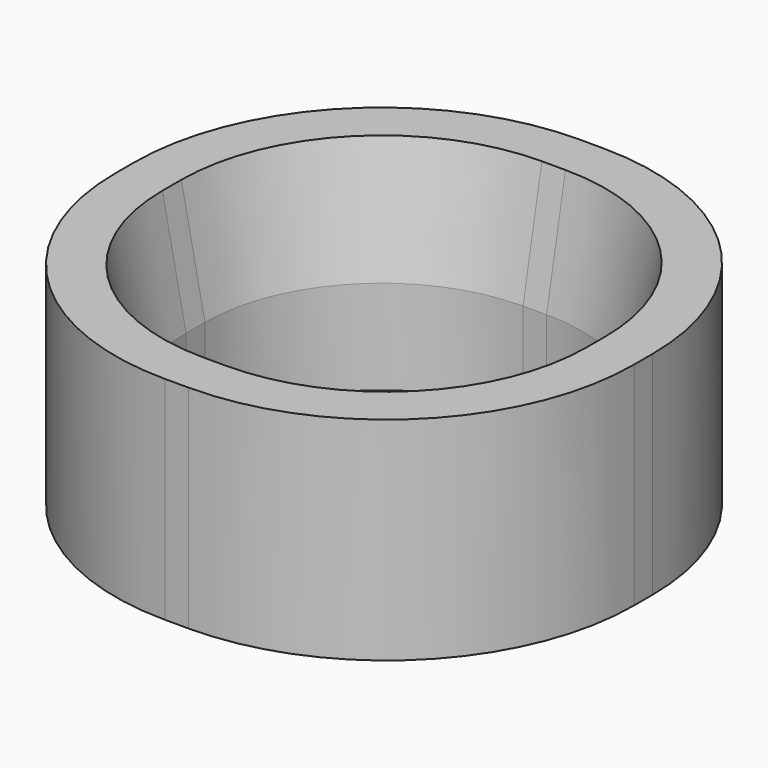
from build123d import *

# Parameters (mm, degrees)
F1_ANGLE = 90
F2_DEPTH = 2
F3_DEPTH = 0.25
F4_DEPTH = 0.25


with BuildPart() as f1:
    # F0 (on Right) → F1 (revolve)
    with BuildSketch(Plane.YZ):
        Polygon((4.25, 5), (3.75, 2.5), (5.25, 2.5), (5.25, 5), align=None)
    revolve(axis=Axis((0, 0, 2.5), (0, 0, 1)), revolution_arc=F1_ANGLE)

    # F2 (add): a face of the model
    f2_faces = [f1.faces().sort_by_distance(p)[0] for p in [
        (-2.8913147995, 2.8913147995, 2.5),
    ]]
    extrude(f2_faces, amount=F2_DEPTH)

    # F3 (add): a face of the model
    f3_faces = [f1.faces().sort_by_distance(p)[0] for p in [
        (0, 4.5595238095, 2.6054421769),
    ]]
    extrude(f3_faces, amount=F3_DEPTH)

    # F4 (add): a face of the model
    f4_faces = [f1.faces().sort_by_distance(p)[0] for p in [
        (-4.5595238095, 0, 2.6054421769),
    ]]
    extrude(f4_faces, amount=F4_DEPTH)

    # F5: F1 across face


with BuildPart() as f1_1:
    add(f1.part)
    add(f1.part.mirror(Plane(origin=(-4.5595238095, -0.25, 2.6054421769), x_dir=(1, 0, 0), z_dir=(0, -1, 0))))

    # F6: F1 across face


with BuildPart() as f1_2:
    add(f1_1.part)
    add(f1_1.part.mirror(Plane(origin=(0.25, -5.0595238095, 2.6054421769), x_dir=(0, 1, 0), z_dir=(1, 0, 0))))


solid = f1_2.part
